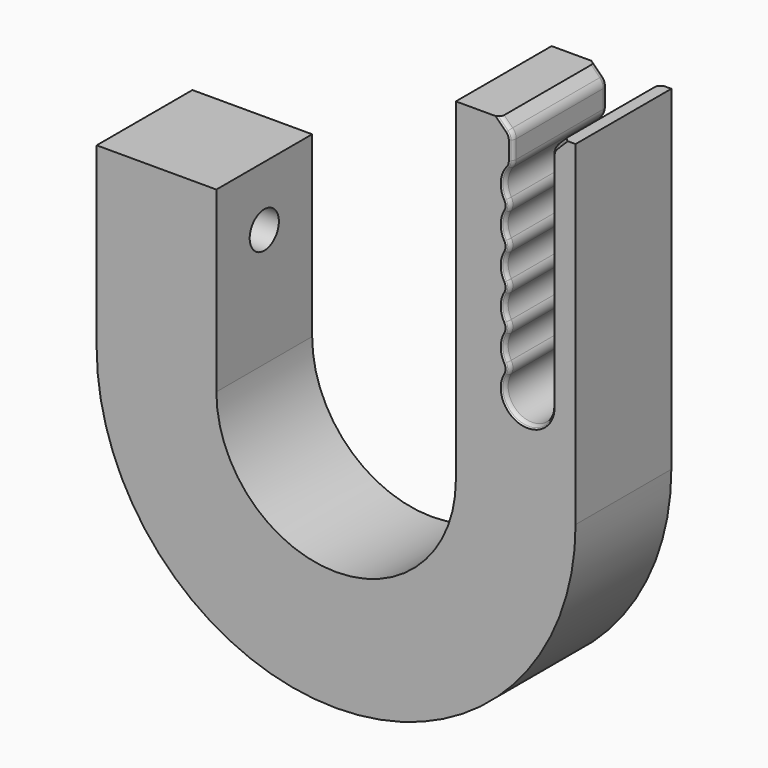
from build123d import *

# Parameters (mm, degrees)
F1_DEPTH       = 10
F2_SIZE        = 2
F3_R           = 2
F4_SIZE        = 0.5
F5_R           = 1
F7_D           = 6.096
F7_DEPTH       = 20
F7_CSINK_D     = 9
F7_CSINK_ANGLE = 90
F7_TIP         = 1.8314231668


with BuildPart() as f1:
    # F0 (on Front) → F1 (new body, symmetric)
    with BuildSketch(Plane.XZ):
        with BuildLine():
            ThreePointArc((6.7156797871, 0), (1.069928476, -3.6457513111), (0.069928476, 3))
            ThreePointArc((0.069928476, 3), (-1.2843202129, 6), (0.069928476, 9))
            ThreePointArc((0.069928476, 9), (-1.2843202129, 12), (0.069928476, 15))
            ThreePointArc((0.069928476, 15), (-1.2843202129, 18), (0.069928476, 21))
            ThreePointArc((0.069928476, 21), (-1.2843202129, 24), (0.069928476, 27))
            ThreePointArc((0.069928476, 27), (-1.2843202129, 30), (0.069928476, 33))
            Line((0.069928476, 33), (0.069928476, 39.6662167867))
            Line((0.069928476, 39.6662167867), (-9.2843202129, 39.6662167867))
            Line((-9.2843202129, 39.6662167867), (-9.2843202129, -16.0612531134))
            ThreePointArc((-9.2843202129, -16.0612531134), (-29.2843202129, -36.0612531134), (-49.2843202129, -16.0612531134))
            Line((-49.2843202129, -16.0612531134), (-49.2843202129, 13.6915137991))
            Line((-49.2843202129, 13.6915137991), (-69.2843202129, 13.6915137991))
            Line((-69.2843202129, 13.6915137991), (-69.2843202129, -16.0612531134))
            ThreePointArc((-69.2843202129, -16.0612531134), (-29.2843202129, -56.0612531134), (10.7156797871, -16.0612531134))
            Line((10.7156797871, -16.0612531134), (10.7156797871, 39.8911702933))
            Line((10.7156797871, 39.8911702933), (6.7156797871, 39.8911702933))
            Line((6.7156797871, 39.8911702933), (6.7156797871, 30))
            Line((6.7156797871, 30), (6.7156797871, 0))
        make_face()
    extrude(amount=F1_DEPTH, both=True)

    # F2
    f2_edges = [f1.edges().sort_by_distance(p)[0] for p in [
        (0.069928, 0, 39.666217),
        (6.71568, 0, 39.89117),
    ]]
    chamfer(f2_edges, length=F2_SIZE)

    # F3
    f3_edges = [f1.edges().sort_by_distance(p)[0] for p in [
        (0.069928, 0, 37.666217),
        (0.069928, 0, 33),
        (0.069928, 0, 27),
        (0.069928, 0, 21),
        (0.069928, 0, 15),
        (0.069928, 0, 9),
        (0.069928, 0, 3),
        (6.71568, 0, 37.89117),
    ]]
    fillet(f3_edges, radius=F3_R)

    # F4
    f4_edges = [f1.edges().sort_by_distance(p)[0] for p in [
        (-1.27127, -10, 30.322853),
        (-0.480473, -10, 27),
        (-1.28432, -10, 24),
        (-0.480473, -10, 21),
        (-1.28432, -10, 18),
        (-0.480473, -10, 15),
        (-1.28432, -10, 12),
        (-0.480473, -10, 9),
        (-1.28432, -10, 6),
        (-0.480473, -10, 3),
        (-0.046303, -10, 33.125097),
        (0.069928, -10, 35.317381),
        (-0.082312, -10, 37.603157),
        (-1.222965, -10, 38.95911),
        (1.680404, -10, -3.863703),
        (6.71568, -10, 18.531372),
        (6.867921, -10, 37.82811),
        (8.008573, -10, 39.184064),
        (8.008573, 10, 39.184064),
        (6.867921, 10, 37.82811),
        (6.71568, 10, 18.531372),
        (1.680404, 10, -3.863703),
        (-0.480473, 10, 3),
        (-1.28432, 10, 6),
        (-1.28432, 10, 12),
        (-1.28432, 10, 18),
        (-1.28432, 10, 24),
        (-1.27127, 10, 30.322853),
        (-0.480473, 10, 9),
        (-0.480473, 10, 15),
        (-0.480473, 10, 21),
        (-0.480473, 10, 27),
        (-0.046303, 10, 33.125097),
        (0.069928, 10, 35.317381),
        (-0.082312, 10, 37.603157),
        (-1.222965, 10, 38.95911),
    ]]
    chamfer(f4_edges, length=F4_SIZE)

    # F5
    f5_edges = [f1.edges().sort_by_distance(p)[0] for p in [
        (1.680404, -9.5, -3.863703),
        (-0.480473, -9.5, 3),
        (-1.28432, -9.5, 6),
        (-0.480473, -9.5, 9),
        (-1.28432, -9.5, 12),
        (-0.480473, -9.5, 15),
        (-1.28432, -9.5, 18),
        (-0.480473, -9.5, 21),
        (-1.28432, -9.5, 24),
        (-0.480473, -9.5, 27),
        (-1.27127, -9.5, 30.322853),
        (0.069928, -9.5, 35.317381),
        (-0.046303, -9.5, 33.125097),
        (-0.082312, -9.5, 37.603157),
        (-1.222965, -9.5, 38.95911),
        (6.71568, -9.5, 18.531372),
        (6.71568, 9.5, 18.531372),
        (1.680404, 9.5, -3.863703),
        (-0.480473, 9.5, 3),
        (-1.28432, 9.5, 6),
        (-0.480473, 9.5, 9),
        (-1.28432, 9.5, 12),
        (-0.480473, 9.5, 15),
        (-1.28432, 9.5, 18),
        (-1.28432, 9.5, 24),
        (-0.480473, 9.5, 21),
        (-0.480473, 9.5, 27),
        (-1.27127, 9.5, 30.322853),
        (-0.046303, 9.5, 33.125097),
        (0.069928, 9.5, 35.317381),
        (-0.082312, 9.5, 37.603157),
        (-1.222965, 9.5, 38.95911),
    ]]
    fillet(f5_edges, radius=F5_R)

    # F7
    with Locations(Plane(origin=(-69.2843202129, 0, 0), x_dir=(0, -1, 0), z_dir=(-1, 0, 0))):
        with Locations((0, 3.6915137991)):
            CounterSinkHole(F7_D / 2, F7_CSINK_D / 2, depth=F7_DEPTH, counter_sink_angle=F7_CSINK_ANGLE)
            with Locations((0, 0, -(F7_DEPTH + F7_TIP / 2))):  # 118° drill point
                Cone(0, F7_D / 2, F7_TIP, mode=Mode.SUBTRACT)


solid = f1.part
